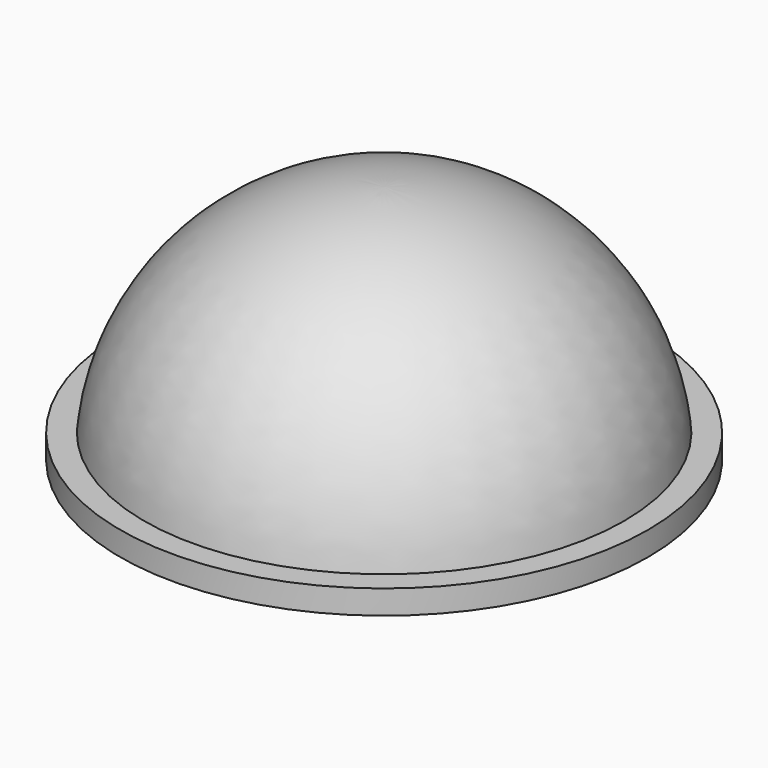
from build123d import *


with BuildPart() as f1:
    # F0 (on Front) → F1 (revolve)
    with BuildSketch(Plane.XZ):
        with BuildLine():
            Line((-20, 2), (0, 2))
            Line((0, 2), (0, 20))
            ThreePointArc((0, 20), (-13.453624, 14.83736), (-20, 2))
        make_face()
        Polygon((0, 2), (0, 0), (22, 0), (22, 2), (20, 2), align=None)
    revolve(axis=Axis((0, 0, 10), (0, 0, 1)))


solid = f1.part
